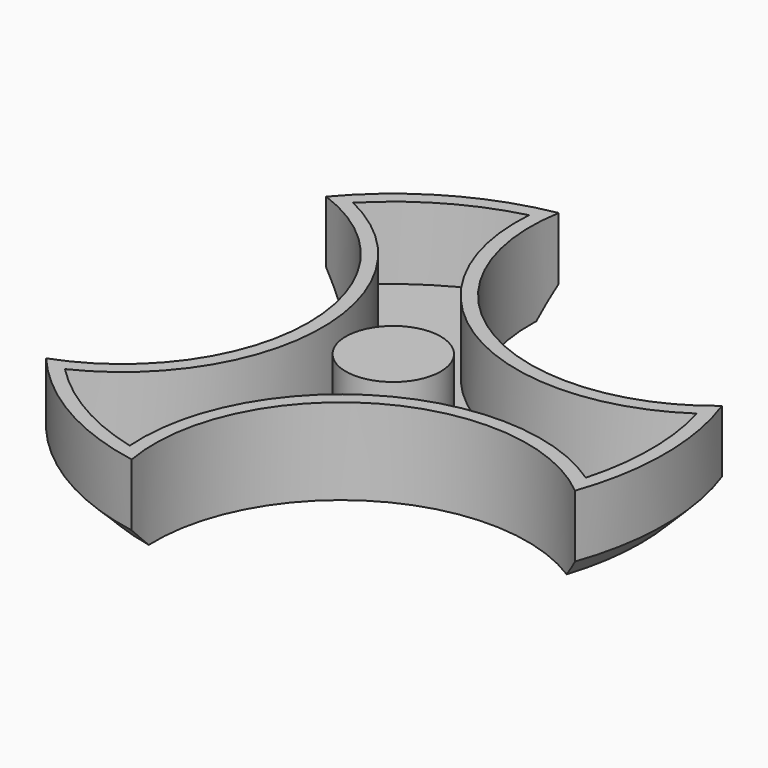
from build123d import *

# Parameters (mm, degrees)
F1_DEPTH = 12.7
F2_T     = -2
F3_R     = 7
F4_DEPTH = 12.7
F5_R     = 6
F6_DEPTH = 11.43
F7_SIZE  = 3.5


with BuildPart() as f1:
    # F0 (on Top) → F1 (new body)
    with BuildSketch(Plane.XY):
        with BuildLine():
            ThreePointArc((37.637836, 13.542278), (6.25, 10.825318), (-7.090961, 39.366461))
            ThreePointArc((-7.090961, 39.366461), (-20, 34.641016), (-30.546875, 25.824183))
            ThreePointArc((-30.546875, 25.824183), (-12.5, 0), (-30.546875, -25.824183))
            ThreePointArc((-30.546875, -25.824183), (-20, -34.641016), (-7.090961, -39.366461))
            ThreePointArc((-7.090961, -39.366461), (6.25, -10.825318), (37.637836, -13.542278))
            ThreePointArc((37.637836, -13.542278), (40, 0), (37.637836, 13.542278))
        make_face()
    extrude(amount=F1_DEPTH)

    # F2
    f2_openings = [f1.faces().sort_by_distance(p)[0] for p in [
        (0, 0, 12.7),
    ]]
    offset(amount=F2_T, openings=f2_openings)

    # F3 (on face) → F4 (join)
    with BuildSketch(Plane(origin=(0, 0, 0), x_dir=(1, 0, 0), z_dir=(0, 0, -1))):
        Circle(F3_R)
    extrude(amount=-F4_DEPTH)

    # F5 (on face) → F6 (cut)
    with BuildSketch(Plane(origin=(0, 0, 0), x_dir=(1, 0, 0), z_dir=(0, 0, -1))):
        Circle(F5_R)
    extrude(amount=-F6_DEPTH, mode=Mode.SUBTRACT)

    # F7
    f7_edges = [f1.edges().sort_by_distance(p)[0] for p in [
        (40, 0, 0),
        (-20, -34.641016, 0),
        (-20, 34.641016, 0),
    ]]
    chamfer(f7_edges, length=F7_SIZE)


solid = f1.part
